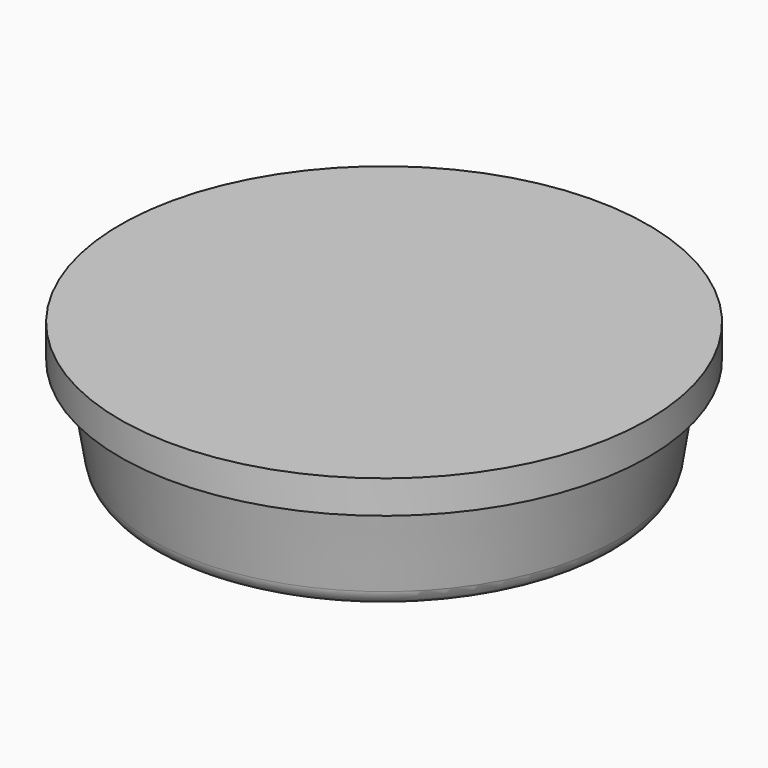
from build123d import *


with BuildPart() as f2:
    # F1 (on Front) → F2 (revolve)
    with BuildSketch(Plane.XZ):
        with BuildLine():
            Line((4, 0), (0, 0))
            Line((0, 0), (0, -2))
            Line((0, -2), (3.245862, -2))
            ThreePointArc((3.245862, -2), (3.439774, -1.928906), (3.54178, -1.74932))
            Line((3.54178, -1.74932), (3.75, -0.5))
            Line((3.75, -0.5), (4, -0.5))
            Line((4, -0.5), (4, 0))
        make_face()
    revolve(axis=Axis((0, 0, -1), (0, 0, 1)))


with BuildPart() as f4:
    # F3 (on Front) → F4 (revolve)
    with BuildSketch(Plane.XZ):
        with BuildLine():
            Line((4, 0), (0, 0))
            Line((0, 0), (0, -2))
            Line((0, -2), (0.5, -2))
            ThreePointArc((0.5, -2), (2.202916, -1.655641), (3.638233, -0.676677))
            Line((3.638233, -0.676677), (3.75, -0.5))
            Line((3.75, -0.5), (4, -0.5))
            Line((4, -0.5), (4, 0))
        make_face()
    revolve(axis=Axis((0, 0, -1), (0, 0, -1)))


solid = Compound([f2.part, f4.part])
